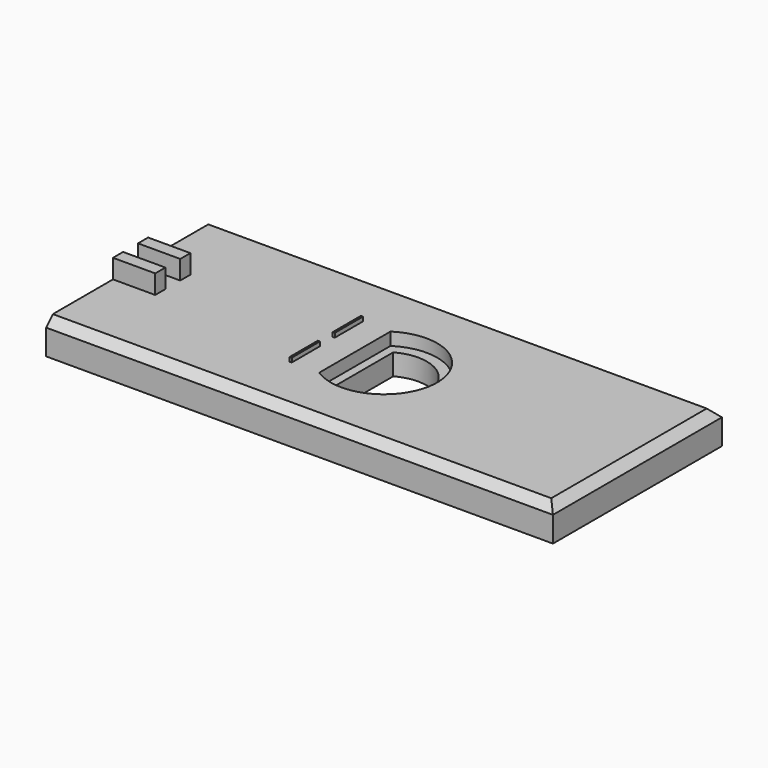
from build123d import *

# Parameters (mm, degrees)
F0_W      = 120
F0_H      = 50
F1_DEPTH  = 8
F3_DEPTH  = 3
F5_DEPTH  = 25
F6_W      = 10
F6_H      = 3
F7_DEPTH  = 4.5
F8_SIZE   = 2
F9_W      = 0.5
F9_H      = 8.34277
F10_DEPTH = 1


with BuildPart() as f1:
    # F0 (on Top) → F1 (new body)
    with BuildSketch(Plane.XY):
        with Locations((60, -25)):
            Rectangle(F0_W, F0_H)
    extrude(amount=F1_DEPTH)

    # F2 (on face) → F3 (cut)
    with BuildSketch(Plane.XY.offset(8)):
        with BuildLine():
            Line((53.1, -14.45723), (53.1, -35.54277))
            ThreePointArc((53.1, -35.54277), (72.6, -25), (53.1, -14.45723))
        make_face()
    extrude(amount=-F3_DEPTH, mode=Mode.SUBTRACT)

    # F4 (on face) → F5 (cut)
    with BuildSketch(Plane.XY.offset(5)):
        with BuildLine():
            Line((55.1, -16.13966), (55.1, -33.86034))
            ThreePointArc((55.1, -33.86034), (70.125, -25), (55.1, -16.13966))
        make_face()
    extrude(amount=-F5_DEPTH, mode=Mode.SUBTRACT)

    # F6 (on face) → F7 (join)
    with BuildSketch(Plane.XY.offset(8)):
        with Locations((5, -21.3)):
            Rectangle(F6_W, F6_H)
        with Locations((5, -28.7)):
            Rectangle(F6_W, F6_H)
    extrude(amount=F7_DEPTH)

    # F8
    f8_edges = [f1.edges().sort_by_distance(p)[0] for p in [
        (120, -25, 8),
        (60, 0, 8),
        (60, -50, 8),
    ]]
    chamfer(f8_edges, length=F8_SIZE)

    # F9 (on face) → F10 (join)
    with BuildSketch(Plane.XY.offset(8)):
        with Locations((46.35, -18.628615)):
            Rectangle(F9_W, F9_H)
        with Locations((46.35, -31.371385)):
            Rectangle(F9_W, F9_H)
    extrude(amount=F10_DEPTH)


solid = f1.part
